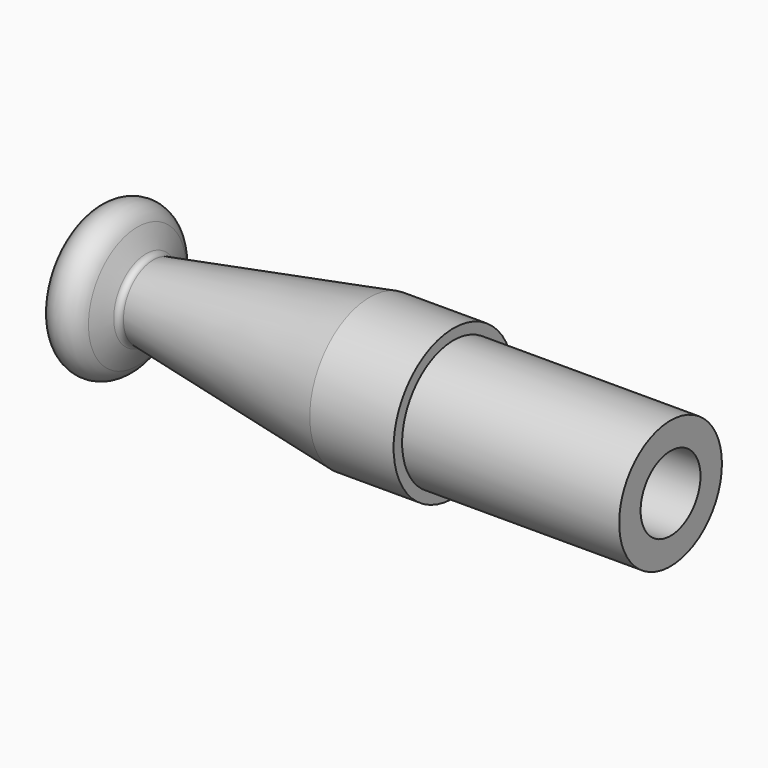
from build123d import *


with BuildPart() as f1:
    # F0 (on Top) → F1 (revolve)
    with BuildSketch(Plane.XY):
        with BuildLine():
            Line((-93.137588, 47.699529), (-93.137588, 50.874529))
            Line((-93.137588, 50.874529), (-41.067588, 50.874529))
            Line((-41.067588, 50.874529), (-41.066376, 55.421129))
            Line((-41.066376, 55.421129), (-77.896376, 55.421129))
            Line((-77.896376, 55.421129), (-77.896376, 57.224529))
            Line((-77.896376, 57.224529), (-92.120376, 57.224529))
            Line((-92.120376, 57.224529), (-128.81206, 50.874529))
            ThreePointArc((-128.81206, 50.874529), (-129.540965, 50.869987), (-130.059498, 51.382282))
            Line((-130.059498, 51.382282), (-131.538478, 54.893509))
            ThreePointArc((-131.538478, 54.893509), (-135.86628, 57.135994), (-138.857588, 53.287529))
            Line((-138.857588, 53.287529), (-138.857588, 47.699529))
            Line((-138.857588, 47.699529), (-126.840025, 47.699529))
            Line((-126.840025, 47.699529), (-93.137588, 47.699529))
        make_face()
    revolve(axis=Axis((-82.501546, 44.524529, 0), (-1, 0, 0)))


solid = f1.part
